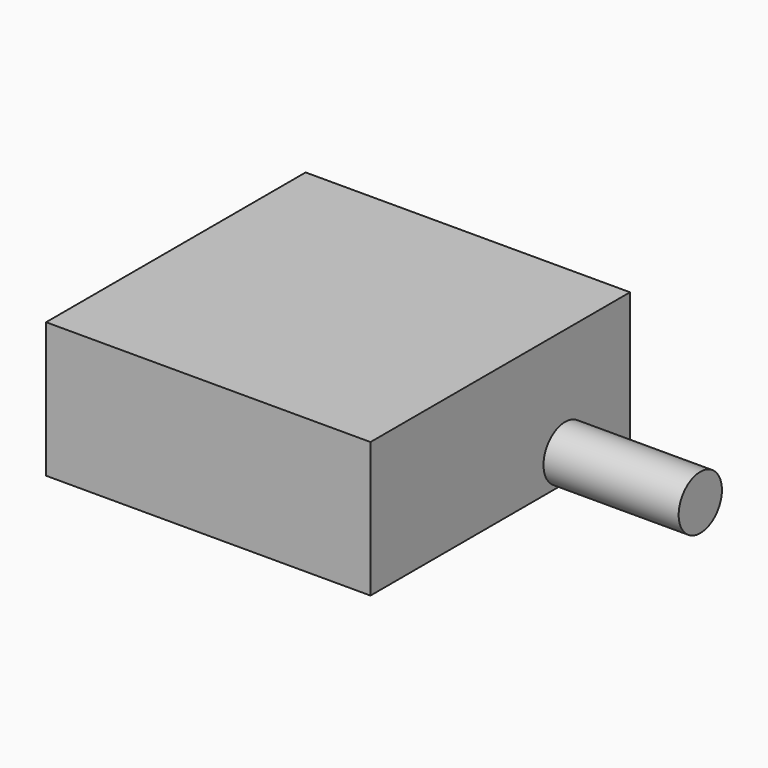
from build123d import *

# Parameters (mm, degrees)
F0_W     = 60
F0_H     = 60
F1_DEPTH = 25
F2_R     = 5
F3_DEPTH = 25


with BuildPart() as f1:
    # F0 (on Top) → F1 (new body)
    with BuildSketch(Plane.XY):
        Rectangle(F0_W, F0_H)
    extrude(amount=F1_DEPTH)

    # F2 (on face) → F3 (join)
    with BuildSketch(Plane.YZ.offset(30)):
        with Locations((15, 5)):
            Circle(F2_R)
    extrude(amount=F3_DEPTH)


solid = f1.part
